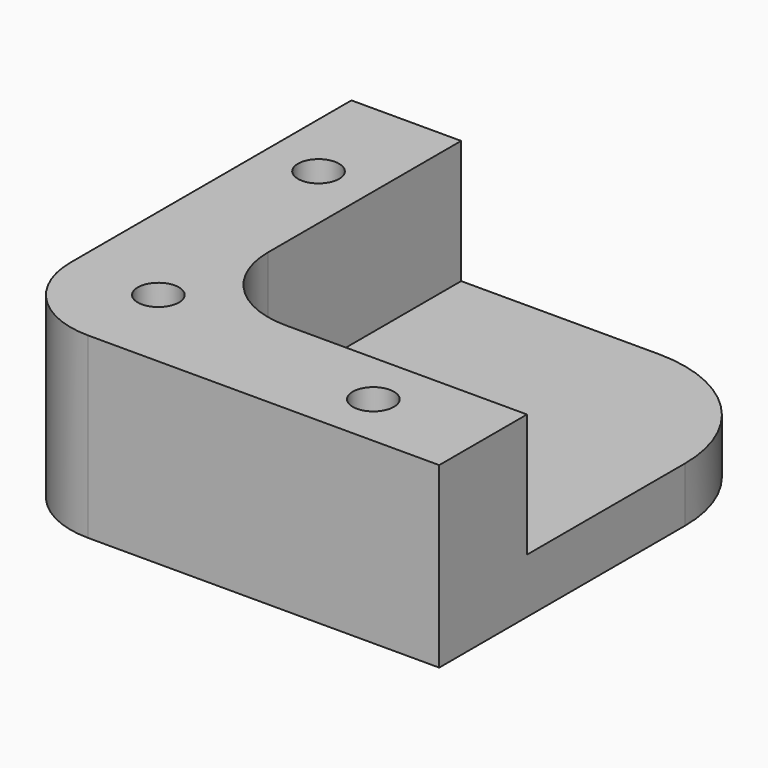
from build123d import *

# Parameters (mm, degrees)
F0_W     = 25.4
F0_H     = 25.4
F1_DEPTH = 3.175
F3_DEPTH = 10.31875
F4_R     = 5.08
F5_R     = 7.62
F6_R     = 1.190625
F7_DEPTH = 10.31975
F8_R     = 1.984375
F9_DEPTH = 1.5875


with BuildPart() as f1:
    # F0 (on Top) → F1 (new body)
    with BuildSketch(Plane.XY):
        with Locations((14.847793, 12.7)):
            Rectangle(F0_W, F0_H)
    extrude(amount=F1_DEPTH)

    # F2 (on Top) → F3 (join)
    with BuildSketch(Plane.XY):
        Polygon((2.147793, 6.35), (2.147793, 0), (8.497793, 0), (27.547793, 0), (27.547793, 6.35), (8.497793, 6.35), (8.497793, 25.4), (2.147793, 25.4), align=None)
    extrude(amount=F3_DEPTH)

    # F4
    f4_edges = [f1.edges().sort_by_distance(p)[0] for p in [
        (8.497793, 6.35, 6.746875),
        (2.147793, 0, 5.159375),
    ]]
    fillet(f4_edges, radius=F4_R)

    # F5
    f5_edges = [f1.edges().sort_by_distance(p)[0] for p in [
        (27.547793, 25.4, 1.5875),
    ]]
    fillet(f5_edges, radius=F5_R)

    # F6 (on face) → F7 (cut, through all)
    with BuildSketch(Plane.XY.offset(10.31875)):
        with Locations((7.227793, 5.08)):
            Circle(F6_R)
        with Locations((5.322793, 19.05)):
            Circle(F6_R)
        with Locations((21.197793, 3.175)):
            Circle(F6_R)
    extrude(amount=-F7_DEPTH, mode=Mode.SUBTRACT)

    # F8 (on face) → F9 (cut)
    with BuildSketch(Plane(origin=(0, 0, 0), x_dir=(1, 0, 0), z_dir=(0, 0, -1))):
        with Locations((7.227793, -5.08)):
            Circle(F8_R)
        with Locations((21.197793, -3.175)):
            Circle(F8_R)
        with Locations((5.322793, -19.05)):
            Circle(F8_R)
    extrude(amount=-F9_DEPTH, mode=Mode.SUBTRACT)


solid = f1.part
